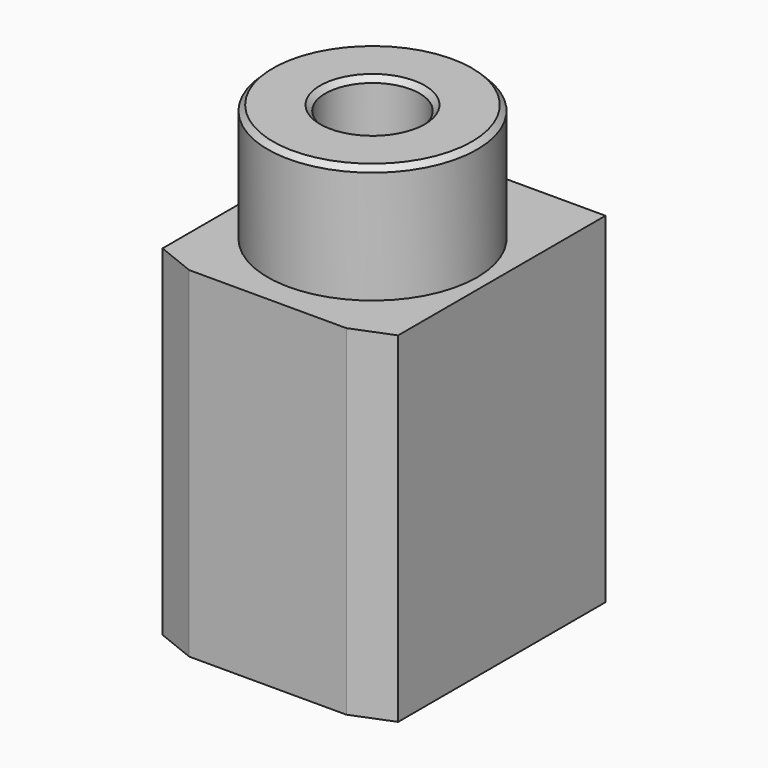
from build123d import *

# Parameters (mm, degrees)
F1_DEPTH = 13
F2_R     = 4
F2_R_2   = 1.8
F3_DEPTH = 4.5
F4_SIZE  = 0.2


with BuildPart() as f1:
    # F0 (on Top) → F1 (new body)
    with BuildSketch(Plane.XY):
        Polygon((4.5, 5.5), (0, 5.5), (-4.5, 5.5), (-4.5, -4.4), (-3, -5), (0, -5), (3, -5), (4.5, -4.4), align=None)
    extrude(amount=F1_DEPTH)

    # F2 (on face) → F3 (join)
    with BuildSketch(Plane.XY.offset(13)):
        Circle(F2_R)
        Circle(F2_R_2, mode=Mode.SUBTRACT)
    extrude(amount=F3_DEPTH)

    # F4
    f4_edges = [f1.edges().sort_by_distance(p)[0] for p in [
        (-4, 0, 17.5),
        (-1.8, 0, 17.5),
    ]]
    chamfer(f4_edges, length=F4_SIZE)


solid = f1.part
